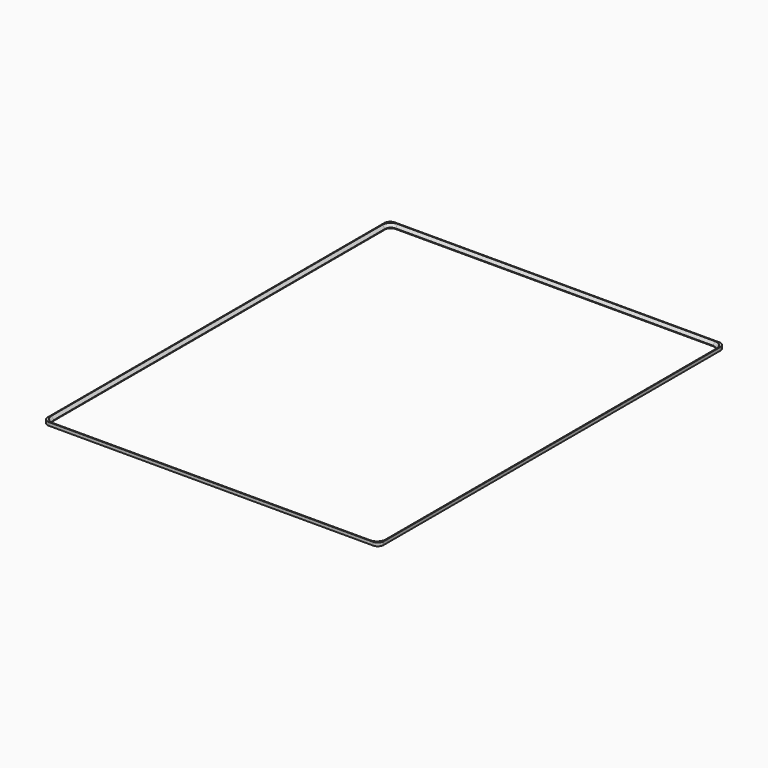
from build123d import *

# Parameters (mm, degrees)
SKETCH_W     = 174
SKETCH_H     = 224
SKETCH_W_2   = 170.4
SKETCH_H_2   = 220.4
PAD_DEPTH    = 1.7
FILLET_R     = 3
CHAMFER_SIZE = 1.4


with BuildPart() as part:
    # Sketch → Pad (new body)
    with BuildSketch(Plane.XY):
        Rectangle(SKETCH_W, SKETCH_H)
        Rectangle(SKETCH_W_2, SKETCH_H_2, mode=Mode.SUBTRACT)
    extrude(amount=PAD_DEPTH)

    # Fillet
    fillet_edges = [part.edges().sort_by_distance(p)[0] for p in [
        (-85.2, -110.2, 0.85),
        (-87, -112, 0.85),
        (87, -112, 0.85),
        (85.2, -110.2, 0.85),
        (87, 112, 0.85),
        (85.2, 110.2, 0.85),
        (-85.2, 110.2, 0.85),
        (-87, 112, 0.85),
    ]]
    fillet(fillet_edges, radius=FILLET_R)

    # Chamfer
    chamfer_edges = [part.edges().sort_by_distance(p)[0] for p in [
        (-84.32132, -109.32132, 1.7),
    ]]
    chamfer(chamfer_edges, length=CHAMFER_SIZE)


solid = part.part
